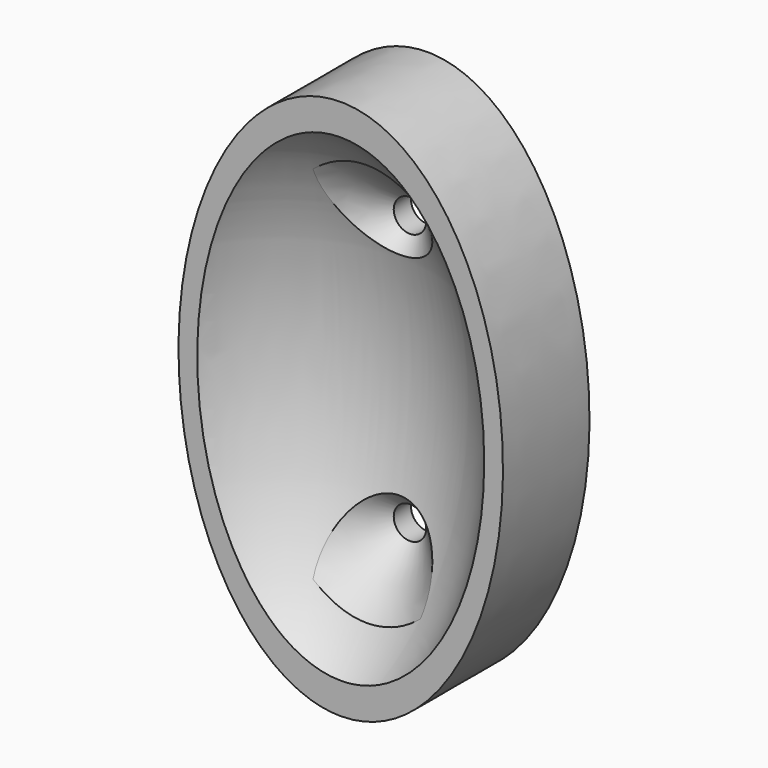
from build123d import *

# Parameters (mm, degrees)
F1_DEPTH  = 10
F4_R      = 1.5
F5_DEPTH  = 2
F5_FACE_R = 1.5
F6_DEPTH  = 5
F6_TAPER  = -45


with BuildPart() as f1:
    # F0 (on Front) → F1 (new body)
    with BuildSketch(Plane.XZ):
        with BuildLine():
            add(Edge.make_bspline(
                [(0, -25), (25.9807621135, -25), (12.9903810568, 12.5), (0, 50), (-12.9903810568, 12.5), (-25.9807621135, -25), (0, -25)],
                knots=[0, 0, 0, 2.0943951024, 2.0943951024, 4.1887902048, 4.1887902048, 6.2831853072, 6.2831853072, 6.2831853072], degree=2, weights=[1, 0.5, 1, 0.5, 1, 0.5, 1]))
        make_face()
    extrude(amount=F1_DEPTH)

    # F2 (on Right) → F3 (revolve, cut)
    with BuildSketch(Plane.YZ):
        with BuildLine():
            Line((-17, 25), (-17, -25))
            add(Edge.make_bspline(
                [(-17, -25), (-2, -25), (-2, 0), (-2, 25), (-17, 25)],
                knots=[0, 0, 0, 1.5707963268, 1.5707963268, 3.1415926536, 3.1415926536, 3.1415926536], degree=2, weights=[1, 0.7071067812, 1, 0.7071067812, 1]))
        make_face()
    revolve(axis=Axis((0, -17, -4.1074659675), (0, 0, -1)), mode=Mode.SUBTRACT)

    # F4 (on Front) → F5 (cut)
    with BuildSketch(Plane.XZ):
        with Locations((0, -12.5)):
            Circle(F4_R)
        with Locations((0, 12.5)):
            Circle(F4_R)
    extrude(amount=F5_DEPTH, mode=Mode.SUBTRACT)

    # F5_face (on face) → F6 (cut)
    with BuildSketch(Plane(origin=(0, -2, -12.5), x_dir=(-1, 0, 0), z_dir=(0, 1, 0))):
        Circle(F5_FACE_R)
        with Locations((0, 25)):
            Circle(F5_FACE_R)
    extrude(amount=-F6_DEPTH, taper=F6_TAPER, mode=Mode.SUBTRACT)


solid = f1.part
